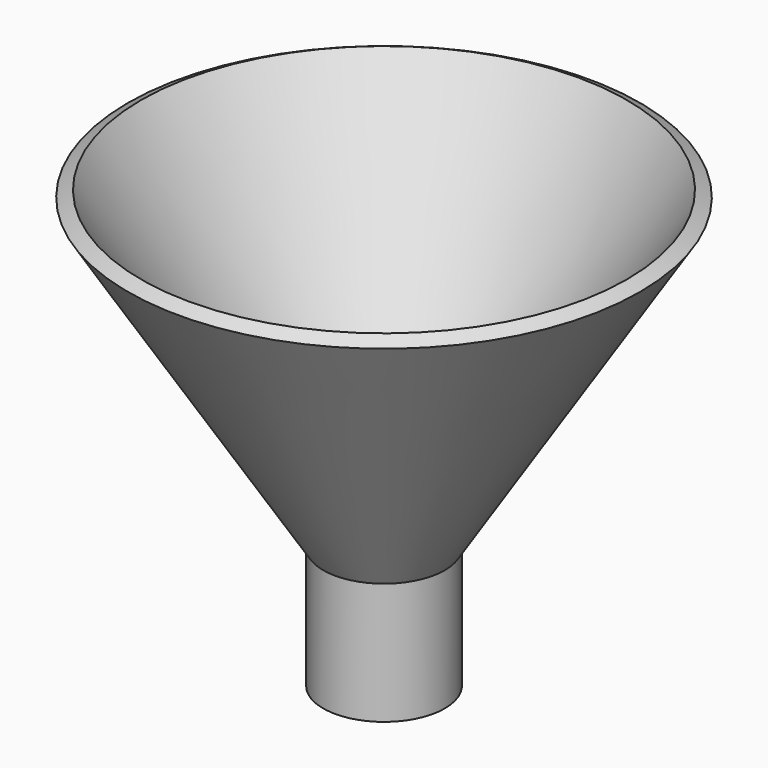
from build123d import *

# Parameters (mm, degrees)
F2_R     = 10.618178
F3_DEPTH = 25.4


with BuildPart() as f1:
    # F0 (on Front) → F1 (revolve)
    with BuildSketch(Plane.XZ):
        Polygon((0, -25.4), (0, 0), (40.745001, 64.391653), (38.009891, 65.802958), (-3.628138, 0), (-12.7, 0), (-12.7, -25.4), align=None)
    revolve(axis=Axis((-12.7, 0, -12.7), (0, 0, 1)))

    # F2 (on Top) → F3 (cut)
    with BuildSketch(Plane.XY):
        with Locations((-12.793963, 0)):
            Circle(F2_R)
    extrude(amount=-F3_DEPTH, mode=Mode.SUBTRACT)


solid = f1.part
